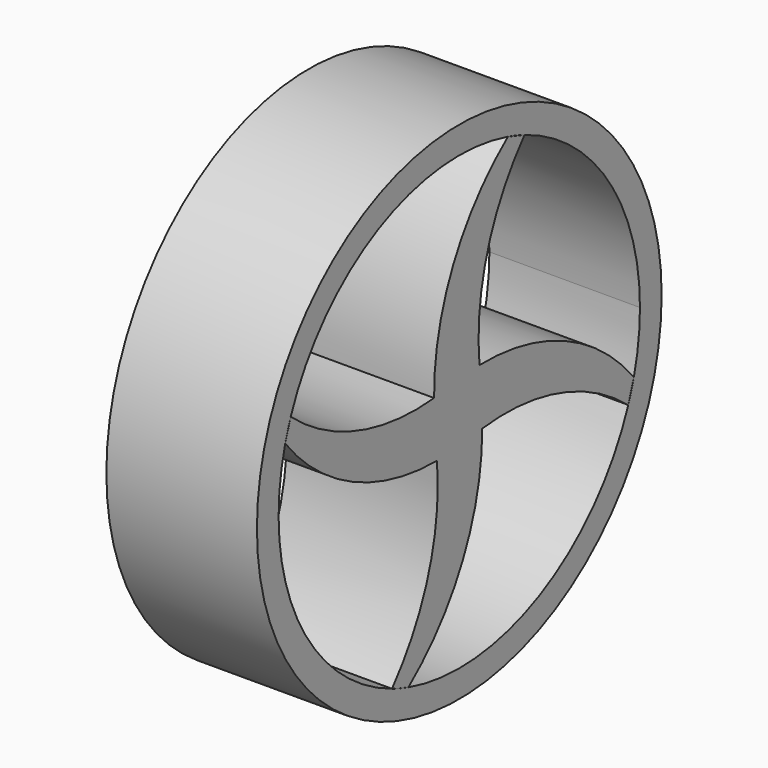
from build123d import *

# Parameters (mm, degrees)
F0_R     = 4.2
F1_DEPTH = 1.25


with BuildPart() as f1:
    # F0 (on Right) → F1 (new body, symmetric)
    with BuildSketch(Plane.YZ):
        Circle(F0_R)
        with BuildLine():
            ThreePointArc((-3.498806, 1.34939), (-1.681889, 3.351678), (1.009353, 3.611607))
            ThreePointArc((1.009353, 3.611607), (1.17871, 3.559936), (1.345439, 3.500328))
            Line((1.345439, 3.500328), (1.353468, 3.497669))
            ThreePointArc((1.353468, 3.497669), (1.353327, 3.497504), (1.353187, 3.49734))
            ThreePointArc((1.353187, 3.49734), (3.093295, 2.119911), (3.75, 0))
            ThreePointArc((3.75, 0), (3.718195, -0.487365), (3.62332, -0.966463))
            ThreePointArc((3.62332, -0.966463), (3.569977, -1.14794), (3.50755, -1.326497))
            ThreePointArc((3.50755, -1.326497), (1.67105, -3.357096), (-1.056209, -3.598183))
            ThreePointArc((-1.056209, -3.598183), (-1.17871, -3.559936), (-1.299831, -3.517519))
            Line((-1.299831, -3.517519), (-1.400324, -3.484245))
            ThreePointArc((-1.400324, -3.484245), (-1.398578, -3.482192), (-1.396833, -3.480138))
            ThreePointArc((-1.396833, -3.480138), (-3.362097, -1.660964), (-3.612744, 1.005275))
            ThreePointArc((-3.612744, 1.005275), (-3.559936, 1.17871), (-3.498806, 1.34939))
        make_face(mode=Mode.SUBTRACT)
        with BuildLine():
            Line((1.345439, 3.500328), (1.009353, 3.611607))
            ThreePointArc((1.009353, 3.611607), (-0.130248, 2.19199), (-0.522696, 0.414354))
            ThreePointArc((-0.522696, 0.414354), (-2.10566, 0.579787), (-3.498806, 1.34939))
            Line((-3.498806, 1.34939), (-3.612744, 1.005275))
            ThreePointArc((-3.612744, 1.005275), (-2.214746, -0.123886), (-0.463507, -0.527075))
            ThreePointArc((-0.463507, -0.527075), (-0.63277, -2.097601), (-1.396833, -3.480138))
            ThreePointArc((-1.396833, -3.480138), (-1.348462, -3.499164), (-1.299831, -3.517519))
            Line((-1.299831, -3.517519), (-1.056209, -3.598183))
            ThreePointArc((-1.056209, -3.598183), (0.075111, -2.195741), (0.476127, -0.439064))
            ThreePointArc((0.476127, -0.439064), (2.083144, -0.570885), (3.50755, -1.326497))
            Line((3.50755, -1.326497), (3.62332, -0.966463))
            ThreePointArc((3.62332, -0.966463), (2.19318, 0.145149), (0.419367, 0.511985))
            ThreePointArc((0.419367, 0.511985), (0.582362, 2.099727), (1.353187, 3.49734))
            ThreePointArc((1.353187, 3.49734), (1.349314, 3.498836), (1.345439, 3.500328))
        make_face()
    extrude(amount=F1_DEPTH, both=True)


solid = f1.part
